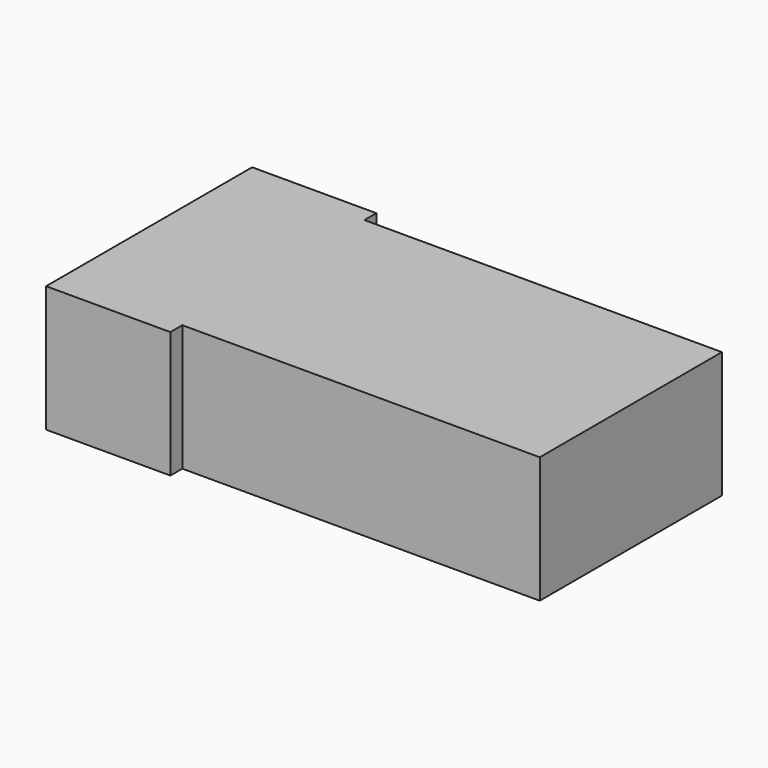
from build123d import *

# Parameters (mm, degrees)
F0_W     = 33.22
F0_H     = 8.71
F1_DEPTH = 17.76
F2_W     = 1.03
F2_H     = 8.71
F3_DEPTH = 24.65


with BuildPart() as f1:
    # F0 (on Front) → F1 (new body)
    with BuildSketch(Plane.XZ):
        with Locations((16.61, 4.355)):
            Rectangle(F0_W, F0_H)
    extrude(amount=F1_DEPTH)

    # F2 (on face) → F3 (cut)
    with BuildSketch(Plane.YZ.offset(33.22)):
        with Locations((-17.245, 4.355)):
            Rectangle(F2_W, F2_H)
        with Locations((-0.515, 4.355)):
            Rectangle(F2_W, F2_H)
    extrude(amount=-F3_DEPTH, mode=Mode.SUBTRACT)


solid = f1.part
